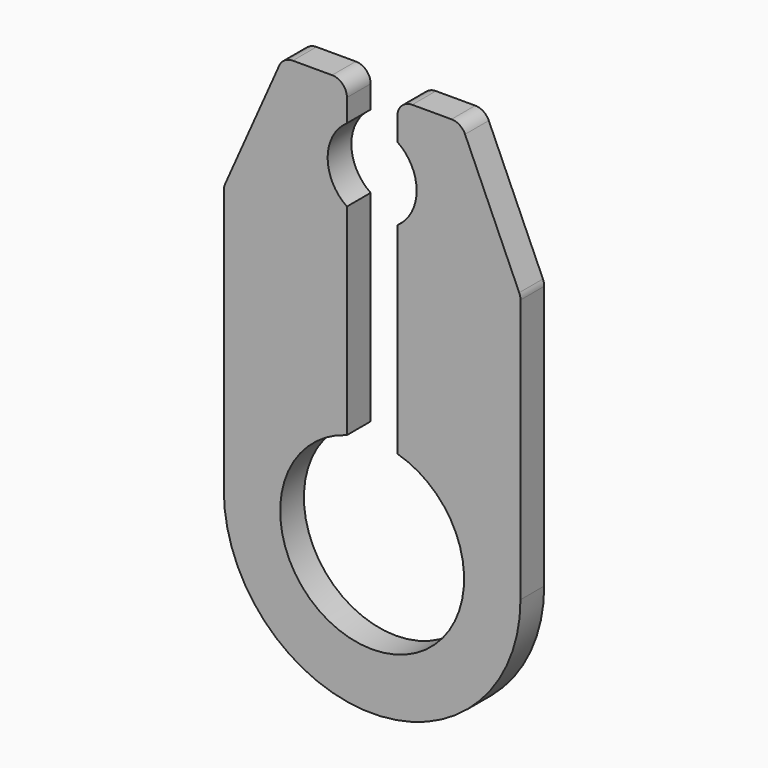
from build123d import *

# Parameters (mm, degrees)
F1_DEPTH = 1
F2_R     = 0.5


with BuildPart() as f1:
    # F0 (on Front) → F1 (new body)
    with BuildSketch(Plane.XZ):
        with BuildLine():
            ThreePointArc((0.85, 2.981191), (0, -3.1), (-0.85, 2.981191))
            Line((-0.85, 2.981191), (-0.85, 9.764079))
            ThreePointArc((-0.85, 9.764079), (-1.5, 11), (-0.85, 12.235921))
            Line((-0.85, 12.235921), (-0.85, 13.5))
            Line((-0.85, 13.5), (-3, 13.5))
            Line((-3, 13.5), (-5, 9))
            Line((-5, 9), (-5, 0))
            ThreePointArc((-5, 0), (0, -5), (5, 0))
            Line((5, 0), (5, 9))
            Line((5, 9), (3, 13.5))
            Line((3, 13.5), (0.85, 13.5))
            Line((0.85, 13.5), (0.85, 12.235921))
            ThreePointArc((0.85, 12.235921), (1.5, 11), (0.85, 9.764079))
            Line((0.85, 9.764079), (0.85, 2.981191))
        make_face()
    extrude(amount=F1_DEPTH)

    # F2
    f2_edges = [f1.edges().sort_by_distance(p)[0] for p in [
        (3, -0.5, 13.5),
        (0.85, -0.5, 13.5),
        (-0.85, -0.5, 13.5),
        (-3, -0.5, 13.5),
        (-5, -0.5, 9),
        (5, -0.5, 9),
    ]]
    fillet(f2_edges, radius=F2_R)


solid = f1.part
